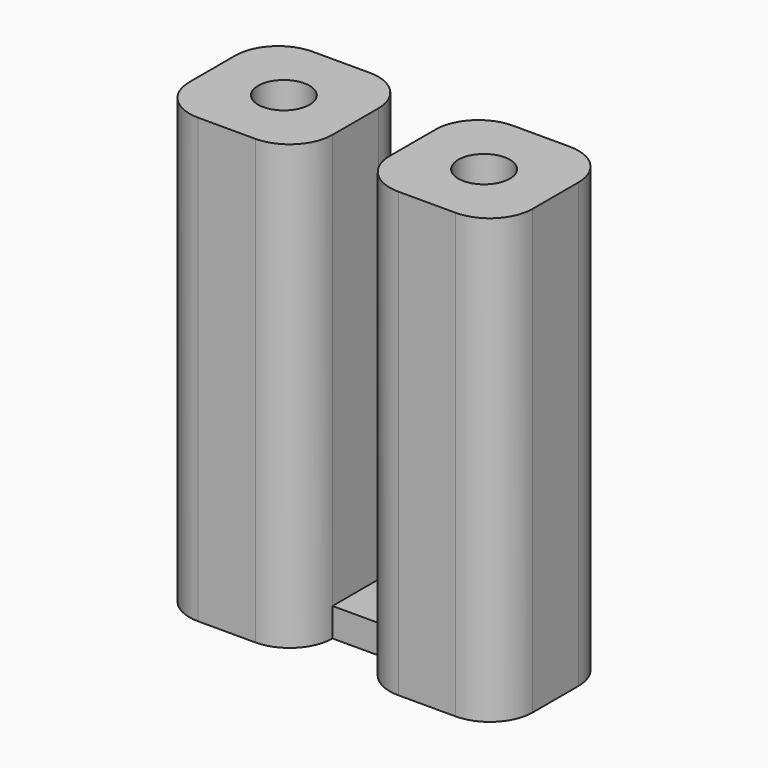
from build123d import *

# Parameters (mm, degrees)
F1_DEPTH = 15.5
F2_DEPTH = 1
F4_D     = 1.8
F4_DEPTH = 4
F4_TIP   = 0.5407745571
F5_D     = 1.8
F5_DEPTH = 4
F5_TIP   = 0.5407745571


with BuildPart() as f1:
    # F0 (on Top) → F1 (new body)
    with BuildSketch(Plane.XY):
        with BuildLine():
            Line((-1, -2.5), (1, -2.5))
            ThreePointArc((1, -2.5), (2.0606601718, -2.0606601718), (2.5, -1))
            Line((2.5, -1), (2.5, 1))
            ThreePointArc((2.5, 1), (2.0606601718, 2.0606601718), (1, 2.5))
            Line((1, 2.5), (-1, 2.5))
            ThreePointArc((-1, 2.5), (-2.0606601718, 2.0606601718), (-2.5, 1))
            Line((-2.5, 1), (-2.5, -1))
            ThreePointArc((-2.5, -1), (-2.0606601718, -2.0606601718), (-1, -2.5))
        make_face()
    extrude(amount=F1_DEPTH)



with BuildPart() as f1b:
    # F0 (on Top) → F1, piece 2 (new body)
    with BuildSketch(Plane.XY):
        with BuildLine():
            Line((4.5, 1), (4.5, -1))
            ThreePointArc((4.5, -1), (4.9393398282, -2.0606601718), (6, -2.5))
            Line((6, -2.5), (8, -2.5))
            ThreePointArc((8, -2.5), (9.0606601718, -2.0606601718), (9.5, -1))
            Line((9.5, -1), (9.5, 1))
            ThreePointArc((9.5, 1), (9.0606601718, 2.0606601718), (8, 2.5))
            Line((8, 2.5), (6, 2.5))
            ThreePointArc((6, 2.5), (4.9393398282, 2.0606601718), (4.5, 1))
        make_face()
    extrude(amount=F1_DEPTH)


with BuildPart() as f1_1:
    add(f1.part)

    add(f1b.part)  # F2 merges F1b
    # F0 (on Top) → F2 (join)
    with BuildSketch(Plane.XY):
        Polygon((2.5, 1), (2.5, -1), (3.5, -1), (4.5, -1), (4.5, 1), (3.5, 1), align=None)
    extrude(amount=F2_DEPTH)

    # F4
    with Locations(Plane.XY.offset(15.5)):
        with Locations((0, 0), (7, 0)):
            Hole(F4_D / 2, depth=F4_DEPTH)
            with Locations((0, 0, -(F4_DEPTH + F4_TIP / 2))):  # 118° drill point
                Cone(0, F4_D / 2, F4_TIP, mode=Mode.SUBTRACT)

    # F5
    with Locations(Plane(origin=(0, 0, 0), x_dir=(1, 0, 0), z_dir=(0, 0, -1))):
        with Locations((7, 0), (0, 0)):
            Hole(F5_D / 2, depth=F5_DEPTH)
            with Locations((0, 0, -(F5_DEPTH + F5_TIP / 2))):  # 118° drill point
                Cone(0, F5_D / 2, F5_TIP, mode=Mode.SUBTRACT)


solid = f1_1.part
